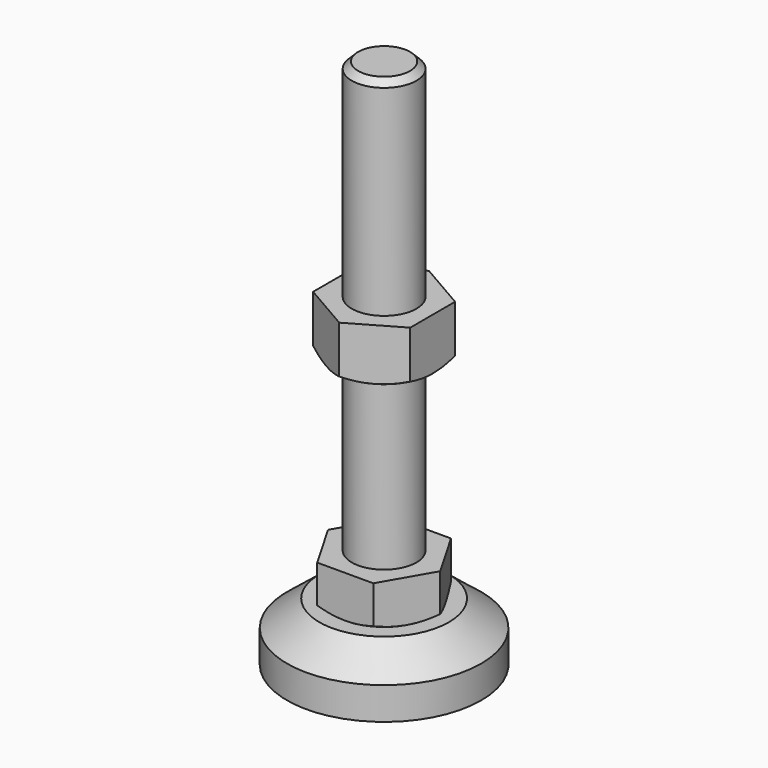
from build123d import *

# Parameters (mm, degrees)
F0_R      = 30
F1_DEPTH  = 18
F2_R      = 10
F3_DEPTH  = 146
F4_SIZE   = 2
F5_SIZE2  = 8
F5_SIZE   = 10
F7_DEPTH  = 13
F10_DEPTH = 16


with BuildPart() as f1:
    # F0 (on Top) → F1 (new body)
    with BuildSketch(Plane.XY):
        Circle(F0_R)
    extrude(amount=F1_DEPTH)

    # F2 (on face) → F3 (join)
    with BuildSketch(Plane.XY.offset(18)):
        Circle(F2_R)
    extrude(amount=F3_DEPTH)

    # F4
    f4_edges = [f1.edges().sort_by_distance(p)[0] for p in [
        (-10, 0, 164),
    ]]
    chamfer(f4_edges, length=F4_SIZE)

    # F5
    f5_edges = [f1.edges().sort_by_distance(p)[0] for p in [
        (-30, 0, 18),
    ]]
    f5_side = f1.faces().sort_by_distance((-29.151472, 0, 18))[0]
    chamfer(f5_edges, length=F5_SIZE, length2=F5_SIZE2, reference=f5_side)

    # F6 (on face) → F7 (join)
    with BuildSketch(Plane.XY.offset(18)):
        Polygon((8.6602540378, -15), (17.3205080757, 0), (8.6602540378, 15), (-8.6602540378, 15), (-17.3205080757, 0), (-8.6602540378, -15), align=None)
    extrude(amount=F7_DEPTH)

    # F9 (on offset) → F10 (join)
    with BuildSketch(Plane.XY.offset(100)):
        Polygon((15, 8.6602540378), (0, 17.3205080757), (-15, 8.6602540378), (-15, -8.6602540378), (0, -17.3205080757), (15, -8.6602540378), align=None)
    extrude(amount=-F10_DEPTH)

    # F11 (on Right) → F12 (revolve, cut)
    with BuildSketch(Plane.YZ):
        Polygon((15, 84), (17.3205080757, 84), (17.3205080757, 85.3397459622), align=None)
    revolve(axis=Axis((0, 0, 18), (0, 0, -1)), mode=Mode.SUBTRACT)

    # F13 (on Front) → F14 (revolve, cut)
    with BuildSketch(Plane.XZ):
        Polygon((-17.3205080757, 18), (-15, 18), (-17.3205080757, 19.3397459622), align=None)
    revolve(axis=Axis((0, 0, 18), (0, 0, -1)), mode=Mode.SUBTRACT)


solid = f1.part
